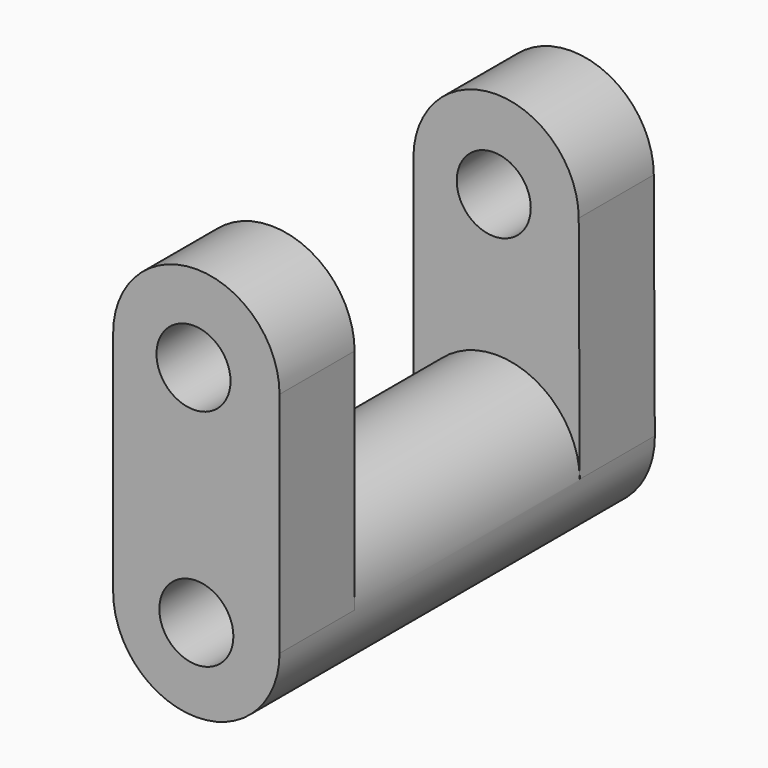
from build123d import *

# Parameters (mm, degrees)
F0_R          = 18.013064
F1_DEPTH      = 50.8
F1_DEPTH_BACK = 50.8
F3_DEPTH      = 20.32
F5_DEPTH      = 20.32
F6_R          = 8.017692
F7_DEPTH      = 101.601


with BuildPart() as f1:
    # F0 (on Front) → F1 (new body, two sides)
    with BuildSketch(Plane.XZ) as f1_sk:
        Circle(F0_R)
    extrude(amount=F1_DEPTH)
    extrude(f1_sk.sketch, amount=-F1_DEPTH_BACK)

    # F2 (on face) → F3 (join)
    with BuildSketch(Plane.XZ.offset(50.8)):
        Polygon((-18.013064, 49.393319), (-18.013064, 0), (18.013064, 0), (18.013064, 49.393319), (0, 49.393319), align=None)
        with BuildLine():
            Line((18.013064, 0), (-18.013064, 0))
            ThreePointArc((-18.013064, 0), (0, -18.013064), (18.013064, 0))
        make_face()
        with BuildLine():
            ThreePointArc((18.013064, 49.393319), (0, 67.406383), (-18.013064, 49.393319))
            Line((-18.013064, 49.393319), (0, 49.393319))
            Line((0, 49.393319), (18.013064, 49.393319))
        make_face()
    extrude(amount=-F3_DEPTH)

    # F4 (on face) → F5 (join)
    with BuildSketch(Plane(origin=(0, 50.8, 0), x_dir=(-1, 0, 0), z_dir=(0, 1, 0))):
        Polygon((-17.788198, 49.871705), (-18.013064, 0), (18.013064, 0), (18.013064, 49.871705), align=None)
        with BuildLine():
            ThreePointArc((18.013064, 49.871705), (0.112433, 67.691806), (-17.788198, 49.871705))
            Line((-17.788198, 49.871705), (18.013064, 49.871705))
        make_face()
    extrude(amount=-F5_DEPTH)

    # F6 (on face) → F7 (cut, through all)
    with BuildSketch(Plane.XZ.offset(50.8)):
        Circle(F6_R)
        with Locations((-0.617001, 48.436549)):
            Circle(F6_R)
    extrude(amount=-F7_DEPTH, mode=Mode.SUBTRACT)


solid = f1.part
